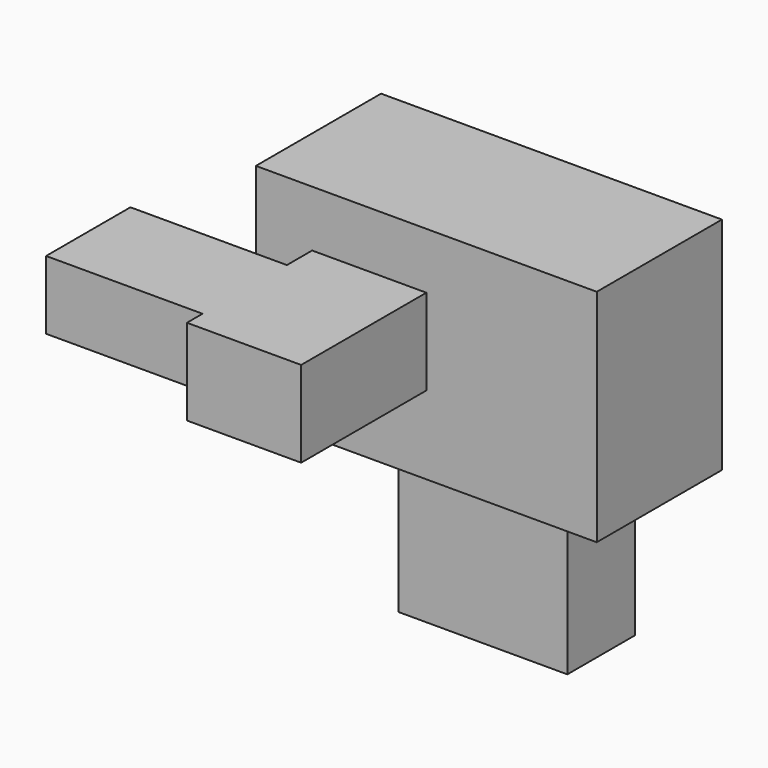
from build123d import *

# Parameters (mm, degrees)
F0_W     = 55.336684
F0_H     = 35.7977
F1_DEPTH = 25.4
F2_W     = 18.540639
F2_H     = 13.976792
F3_DEPTH = 25.4
F4_W     = 17.11444
F4_H     = 11.124386
F5_DEPTH = 25.4
F6_W     = 27.447399
F6_H     = 13.715297
F7_DEPTH = 25.4


with BuildPart() as f1:
    # F0 (on Front) → F1 (new body)
    with BuildSketch(Plane.XZ):
        with Locations((27.668342, 17.89885)):
            Rectangle(F0_W, F0_H)
    extrude(amount=F1_DEPTH)

    # F2 (on face) → F3 (join)
    with BuildSketch(Plane.XZ.offset(25.4)):
        with Locations((18.39802, 19.681605)):
            Rectangle(F2_W, F2_H)
    extrude(amount=F3_DEPTH)

    # F4 (on face) → F5 (join)
    with BuildSketch(Plane(origin=(9.127701, 0, 0), x_dir=(0, -1, 0), z_dir=(-1, 0, 0))):
        with Locations((39.077966, 21.107808)):
            Rectangle(F4_W, F4_H)
    extrude(amount=F5_DEPTH)

    # F6 (on face) → F7 (join)
    with BuildSketch(Plane(origin=(0, 0, 0), x_dir=(1, 0, 0), z_dir=(0, 0, -1))):
        with Locations((30.881432, 11.093259)):
            Rectangle(F6_W, F6_H)
    extrude(amount=F7_DEPTH)


solid = f1.part
